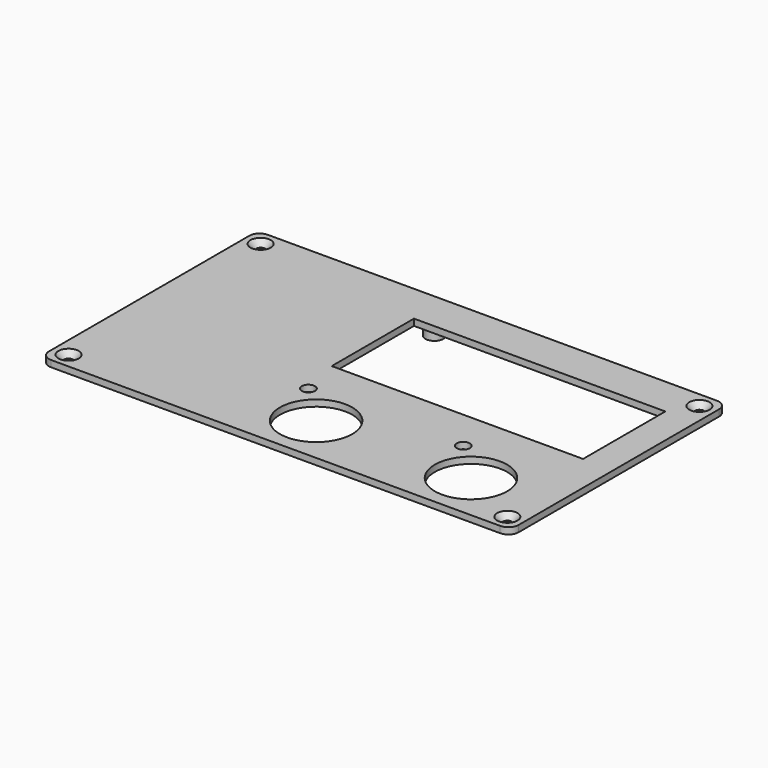
from build123d import *

# Parameters (mm, degrees)
SKETCH_W        = 181.97
SKETCH_H        = 105
SKETCH_R        = 14
SKETCH_R_2      = 2.55
SKETCH_R_3      = 1.75
SKETCH_W_2      = 97.37
SKETCH_H_2      = 39.83
PAD_DEPTH       = 2.5
CHAMFER_SIZE    = 2.2
SKETCH001_R     = 3.5
PAD001_DEPTH    = 4
SKETCH002_R     = 3.5
PAD002_DEPTH    = 5.5
SKETCH003_R     = 2.1
POCKET_DEPTH    = 6
SKETCH004_R     = 1.6
POCKET001_DEPTH = 5.5
FILLET_R        = 4


with BuildPart() as part:
    # Sketch → Pad (new body)
    with BuildSketch(Plane.XY):
        with Locations((90.985, -52.5)):
            Rectangle(SKETCH_W, SKETCH_H)
        with Locations((91.485, -86)):
            Circle(SKETCH_R, mode=Mode.SUBTRACT)
        with Locations((151.485, -86)):
            Circle(SKETCH_R, mode=Mode.SUBTRACT)
        with Locations((136.485, -71)):
            Circle(SKETCH_R_2, mode=Mode.SUBTRACT)
        with Locations((76.485, -71)):
            Circle(SKETCH_R_2, mode=Mode.SUBTRACT)
        with Locations((6, -99)):
            Circle(SKETCH_R_3, mode=Mode.SUBTRACT)
        with Locations((175.97, -99)):
            Circle(SKETCH_R_3, mode=Mode.SUBTRACT)
        with Locations((6, -6)):
            Circle(SKETCH_R_3, mode=Mode.SUBTRACT)
        with Locations((175.97, -6)):
            Circle(SKETCH_R_3, mode=Mode.SUBTRACT)
        with Locations((121.485, -35.17)):
            Rectangle(SKETCH_W_2, SKETCH_H_2, mode=Mode.SUBTRACT)
    extrude(amount=PAD_DEPTH)

    # Chamfer
    chamfer_edges = [part.edges().sort_by_distance(p)[0] for p in [
        (4.25, -6, 2.5),
        (4.25, -99, 2.5),
        (174.22, -99, 2.5),
        (174.22, -6, 2.5),
    ]]
    chamfer(chamfer_edges, length=CHAMFER_SIZE)

    # Sketch001 (on Face3 of Chamfer) → Pad001 (join)
    with BuildSketch(Plane(origin=(0, 0, 0), x_dir=(1, 0, 0), z_dir=(0, 0, -1))):
        with Locations((15.5, 84.3)):
            Circle(SKETCH001_R)
        with Locations((64.5, 84.3)):
            Circle(SKETCH001_R)
        with Locations((64.5, 26.3)):
            Circle(SKETCH001_R)
        with Locations((15.5, 26.3)):
            Circle(SKETCH001_R)
    extrude(amount=PAD001_DEPTH)

    # Sketch002 (on Face3 of Pad001) → Pad002 (join)
    with BuildSketch(Plane(origin=(0, 0, 0), x_dir=(1, 0, 0), z_dir=(0, 0, -1))):
        with Locations((74.985, 63.085)):
            Circle(SKETCH002_R)
        with Locations((167.985, 63.085)):
            Circle(SKETCH002_R)
        with Locations((167.985, 8.085)):
            Circle(SKETCH002_R)
        with Locations((74.985, 8.085)):
            Circle(SKETCH002_R)
    extrude(amount=PAD002_DEPTH)

    # Sketch003 (on Face33 of Pad002) → Pocket (cut)
    with BuildSketch(Plane(origin=(0, 0, -5.5), x_dir=(1, 0, 0), z_dir=(0, 0, -1))):
        with Locations((74.985, 63.085)):
            Circle(SKETCH003_R)
        with Locations((167.985, 63.085)):
            Circle(SKETCH003_R)
        with Locations((167.985, 8.085)):
            Circle(SKETCH003_R)
        with Locations((74.985, 8.085)):
            Circle(SKETCH003_R)
    extrude(amount=-POCKET_DEPTH, mode=Mode.SUBTRACT)

    # Sketch004 (on Face36 of Pocket) → Pocket001 (cut)
    with BuildSketch(Plane(origin=(0, 0, -4), x_dir=(1, 0, 0), z_dir=(0, 0, -1))):
        with Locations((15.5, 84.3)):
            Circle(SKETCH004_R)
        with Locations((64.5, 84.3)):
            Circle(SKETCH004_R)
        with Locations((64.5, 26.3)):
            Circle(SKETCH004_R)
        with Locations((15.5, 26.3)):
            Circle(SKETCH004_R)
    extrude(amount=-POCKET001_DEPTH, mode=Mode.SUBTRACT)

    # Fillet
    fillet_edges = [part.edges().sort_by_distance(p)[0] for p in [
        (0, 0, 1.25),
        (0, -105, 1.25),
        (181.97, 0, 1.25),
        (181.97, -105, 1.25),
    ]]
    fillet(fillet_edges, radius=FILLET_R)


solid = part.part
